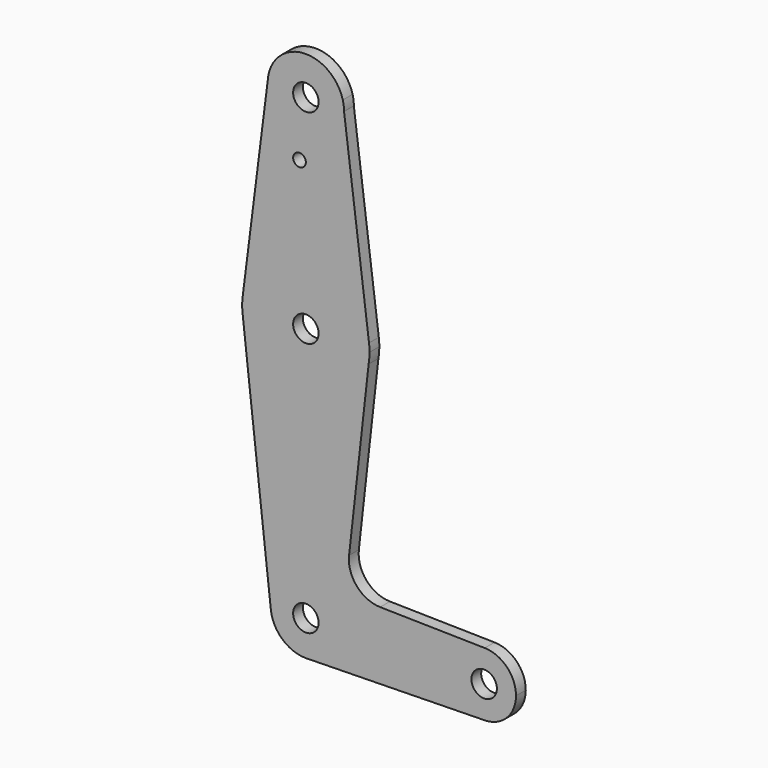
from build123d import *

# Parameters (mm, degrees)
F0_R     = 3.175
F0_R_2   = 1.5875
F1_DEPTH = 3.048


with BuildPart() as f1:
    # F0 (on Front) → F1 (new body)
    with BuildSketch(Plane.XZ):
        with BuildLine():
            ThreePointArc((18.5181670141, -61.5292938293), (24.0327967311, -59.1521613877), (26.3044124514, -53.5932350904))
            ThreePointArc((26.3044124514, -53.5932350904), (24.0328138387, -48.0343262299), (18.5182158607, -45.6571772826))
            ThreePointArc((18.5182158607, -45.6571772826), (10.4294124514, -53.5932106626), (18.5181670141, -61.5292938293))
        make_face()
        with Locations((18.3669124514, -53.5932350904)):
            Circle(F0_R, mode=Mode.SUBTRACT)
        with BuildLine():
            ThreePointArc((-26.0969247789, -62.3796197179), (-25.9156566935, -62.3780352134), (-25.7344598752, -62.3727114436))
            Line((-25.7344598752, -62.3727114436), (-26.0969247789, -62.3796197179))
        make_face()
        with BuildLine():
            ThreePointArc((-35.4424930728, 62.475140784), (-35.5329606028, 61.9007181161), (-35.5882072716, 61.3218454349))
            Line((-35.5882072716, 61.3218454349), (-35.4424930728, 62.475140784))
        make_face()
        with BuildLine():
            Line((-16.8707446539, 63.1271705349), (-16.5581328064, 60.6774023819))
            ThreePointArc((-16.5581328064, 60.6774023819), (-16.5580988631, 60.6920836283), (-16.5580875486, 60.7067649096))
            ThreePointArc((-16.5580875486, 60.7067649096), (-16.6365752009, 61.9270228594), (-16.8707446539, 63.1271705349))
        make_face()
        with BuildLine():
            Line((-26.0969247789, -62.3796197179), (-25.7344598752, -62.3727114436))
            ThreePointArc((-25.7344598752, -62.3727114436), (-19.7481081911, -59.6816489094), (-17.2966920253, -53.5932350904))
            ThreePointArc((-17.2966920253, -53.5932350904), (-26.5742192856, -44.8205766615), (-34.8145776486, -54.5739628439))
            ThreePointArc((-34.8145776486, -54.5739628439), (-31.9441674267, -60.1391108114), (-26.0969247789, -62.3796197179))
        make_face()
        with Locations((-26.0830875486, -53.5932350904)):
            Circle(F0_R, mode=Mode.SUBTRACT)
        with BuildLine():
            ThreePointArc((-41.8402454706, 7.9760657557), (-26.4534387001, -5.9639145032), (-10.4331401928, 7.2431634457))
            ThreePointArc((-10.4331401928, 7.2431634457), (-10.2644507667, 8.5702188525), (-10.2080875486, 9.9067649096))
            ThreePointArc((-10.2080875486, 9.9067649096), (-10.2400438955, 10.9135383722), (-10.33578428, 11.9162585684))
            ThreePointArc((-10.33578428, 11.9162585684), (-26.0929519468, 25.7817618449), (-41.8328759723, 11.8966869204))
            ThreePointArc((-41.8328759723, 11.8966869204), (-41.9580595041, 9.9366047164), (-41.8402454706, 7.9760657557))
        make_face()
        with Locations((-26.0830875486, 9.9067649096)):
            Circle(F0_R, mode=Mode.SUBTRACT)
        with BuildLine():
            ThreePointArc((18.5181670141, -61.5292938293), (10.4294124514, -53.5932106626), (18.5182158607, -45.6571772826))
            Line((18.5182158607, -45.6571772826), (-7.5601020612, -45.159986044))
            ThreePointArc((-7.5601020612, -45.159986044), (-13.3848311034, -42.4543043271), (-15.3094287106, -36.3269797871))
            Line((-15.3094287106, -36.3269797871), (-10.4331401928, 7.2431634457))
            ThreePointArc((-10.4331401928, 7.2431634457), (-26.4534387001, -5.9639145032), (-41.8402454706, 7.9760657557))
            Line((-41.8402454706, 7.9760657557), (-34.8145776486, -54.5739628439))
            ThreePointArc((-34.8145776486, -54.5739628439), (-26.5742192856, -44.8205766615), (-17.2966920253, -53.5932350904))
            ThreePointArc((-17.2966920253, -53.5932350904), (-19.7481081911, -59.6816489094), (-25.7344598752, -62.3727114436))
            Line((-25.7344598752, -62.3727114436), (18.5181670141, -61.5292938293))
        make_face()
        with BuildLine():
            Line((-35.5882072716, 61.3218454349), (-41.8328759723, 11.8966869204))
            ThreePointArc((-41.8328759723, 11.8966869204), (-26.0929519468, 25.7817618449), (-10.33578428, 11.9162585684))
            Line((-10.33578428, 11.9162585684), (-16.5581328064, 60.6774023819))
            ThreePointArc((-16.5581328064, 60.6774023819), (-26.4054616623, 51.187221857), (-35.5882072716, 61.3218454349))
        make_face()
        with Locations((-27.6705875486, 46.4319649096)):
            Circle(F0_R_2, mode=Mode.SUBTRACT)
        with BuildLine():
            Line((-35.4424930728, 62.475140784), (-35.5882072716, 61.3218454349))
            ThreePointArc((-35.5882072716, 61.3218454349), (-26.4054616623, 51.187221857), (-16.5581328064, 60.6774023819))
            Line((-16.5581328064, 60.6774023819), (-16.8707446539, 63.1271705349))
            ThreePointArc((-16.8707446539, 63.1271705349), (-26.4172919072, 70.2258999778), (-35.4424930728, 62.475140784))
        make_face()
        with Locations((-26.0830875486, 60.7067649096)):
            Circle(F0_R, mode=Mode.SUBTRACT)
    extrude(amount=F1_DEPTH)


solid = f1.part
